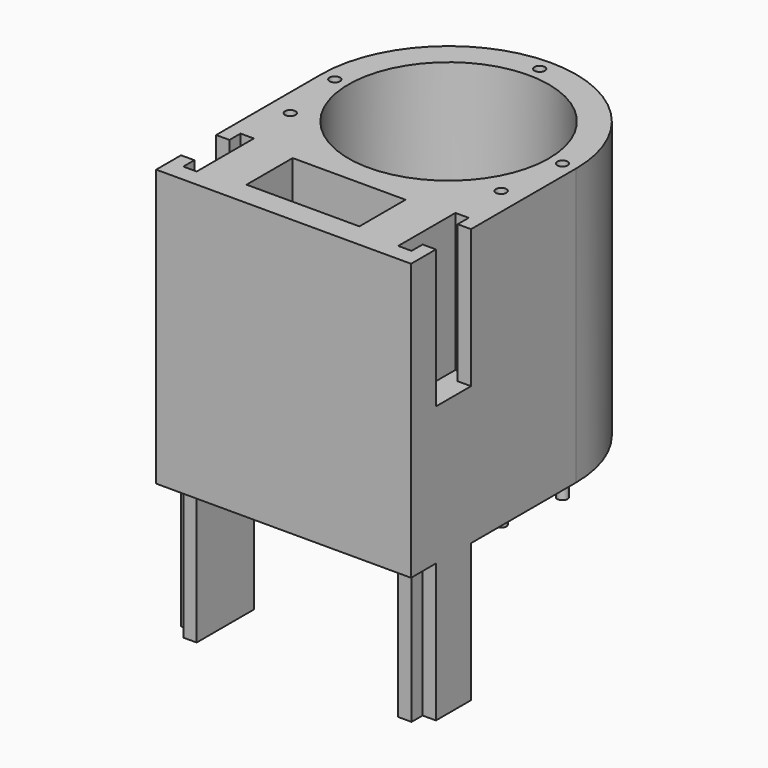
from build123d import *

# Parameters (mm, degrees)
F0_W      = 41.476287
F0_H      = 21.196319
F0_R      = 36.83
F1_DEPTH  = 101.6
F4_DEPTH  = 50.8
F6_DEPTH  = 50.8
F7_R      = 1.918424
F7_R_2    = 1.918426
F8_DEPTH  = 6.35
F9_R      = 1.918426
F10_DEPTH = 6.35


with BuildPart() as f1:
    # F0 (on Top) → F1 (new body)
    with BuildSketch(Plane.XY):
        with BuildLine():
            Line((61.68938, -26.920194), (61.68938, 48.886125))
            ThreePointArc((61.68938, 48.886125), (14.852995, 95.72251), (-31.98339, 48.886125))
            Line((-31.98339, 48.886125), (-31.98339, -26.920194))
            Line((-31.98339, -26.920194), (61.68938, -26.920194))
        make_face()
        with Locations((14.852995, -7.432034)):
            Rectangle(F0_W, F0_H, mode=Mode.SUBTRACT)
        with Locations((14.852995, 48.886125)):
            Circle(F0_R, mode=Mode.SUBTRACT)
    extrude(amount=F1_DEPTH)

    # F3 (on face) → F4 (join)
    with BuildSketch(Plane(origin=(0, 0, 0), x_dir=(1, 0, 0), z_dir=(0, 0, -1))):
        Polygon((51.882841, 20.570194), (51.882841, 20.069338), (51.882841, -5.706131), (56.786107, -5.706131), (56.786107, -0.626131), (61.68938, -0.626131), (61.68938, 15.490194), (56.78611, 15.490194), (56.78611, 20.069338), (56.78611, 20.570194), align=None)
        Polygon((-22.17685, -5.706131), (-22.17685, 20.069338), (-22.17685, 20.570194), (-27.08012, 20.570194), (-27.08012, 20.069338), (-27.08012, 15.490194), (-31.98339, 15.490194), (-31.98339, -0.626131), (-27.080117, -0.626131), (-27.080117, -5.706131), align=None)
    extrude(amount=F4_DEPTH)

    # F5 (on face) → F6 (cut)
    with BuildSketch(Plane.XY.offset(101.6)):
        Polygon((-31.98339, 0.626131), (-31.98339, -15.490194), (-27.080123, -15.490194), (-27.080123, -20.570194), (-22.176856, -20.570194), (-22.176856, -15.490194), (-22.176856, 0.626131), (-22.176856, 5.706131), (-27.080123, 5.706131), (-27.080123, 0.626131), align=None)
        Polygon((51.882846, 0.626131), (51.882846, -15.490194), (51.882846, -20.570194), (56.786113, -20.570194), (56.786113, -15.490194), (61.68938, -15.490194), (61.68938, 0.626131), (56.786113, 0.626131), (56.786113, 5.706131), (51.882846, 5.706131), align=None)
    extrude(amount=-F6_DEPTH, mode=Mode.SUBTRACT)

    # F7 (on face) → F8 (cut)
    with BuildSketch(Plane.XY.offset(101.6)):
        with Locations((-26.980197, 48.886125)):
            Circle(F7_R)
        with Locations((-23.892931, 24.574445)):
            Circle(F7_R)
        with Locations((53.598921, 24.574445)):
            Circle(F7_R)
        with Locations((56.686187, 48.886125)):
            Circle(F7_R)
        with Locations((14.852995, 90.719925)):
            Circle(F7_R_2)
    extrude(amount=-F8_DEPTH, mode=Mode.SUBTRACT)

    # F9 (on face) → F10 (join)
    with BuildSketch(Plane(origin=(0, 0, 0), x_dir=(1, 0, 0), z_dir=(0, 0, -1))):
        with Locations((56.686187, -48.886125)):
            Circle(F9_R)
        with Locations((14.852995, -90.719925)):
            Circle(F9_R)
        with Locations((-26.980197, -48.886125)):
            Circle(F9_R)
        with Locations((-23.892931, -24.574445)):
            Circle(F9_R)
        with Locations((53.598921, -24.574445)):
            Circle(F9_R)
    extrude(amount=F10_DEPTH)


solid = f1.part
